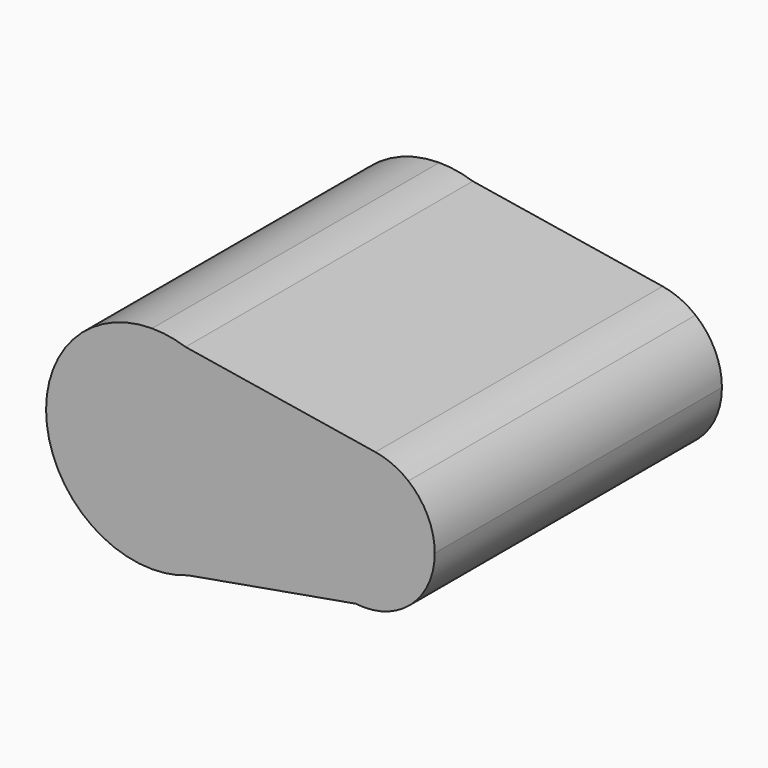
from build123d import *

# Parameters (mm, degrees)
F1_DEPTH = 50.8


with BuildPart() as f1:
    # F0 (on Front) → F1 (new body)
    with BuildSketch(Plane.XZ):
        with BuildLine():
            Line((4.744167, 14.229999), (0, 15))
            ThreePointArc((0, 15), (-15, 0), (0, -15))
            Line((0, -15), (5.124627, -14.097454))
            ThreePointArc((5.124627, -14.097454), (12.285548, -8.60612), (15, 0))
            ThreePointArc((15, 0), (12.168864, 8.770333), (4.744167, 14.229999))
        make_face()
        with BuildLine():
            ThreePointArc((4.744167, 14.229999), (2.403124, 14.806248), (0, 15))
            Line((0, 15), (4.744167, 14.229999))
        make_face()
        with BuildLine():
            Line((5.124627, -14.097454), (0, -15))
            ThreePointArc((0, -15), (2.601749, -14.77264), (5.124627, -14.097454))
        make_face()
        with BuildLine():
            Line((31.602083, 9.870832), (4.744167, 14.229999))
            ThreePointArc((4.744167, 14.229999), (12.168864, 8.770333), (15, 0))
            ThreePointArc((15, 0), (12.285548, -8.60612), (5.124627, -14.097454))
            Line((5.124627, -14.097454), (28.800074, -9.927748))
            ThreePointArc((28.800074, -9.927748), (20.098668, 1.401293), (31.602083, 9.870832))
        make_face()
        with BuildLine():
            ThreePointArc((36.268126, 7.7917), (34.070104, 9.134235), (31.602083, 9.870832))
            ThreePointArc((31.602083, 9.870832), (20.098668, 1.401293), (28.800074, -9.927748))
            ThreePointArc((28.800074, -9.927748), (36.633277, -7.48329), (40, 0))
            ThreePointArc((40, 0), (39.018904, 4.319649), (36.268126, 7.7917))
        make_face()
    extrude(amount=F1_DEPTH)


solid = f1.part
